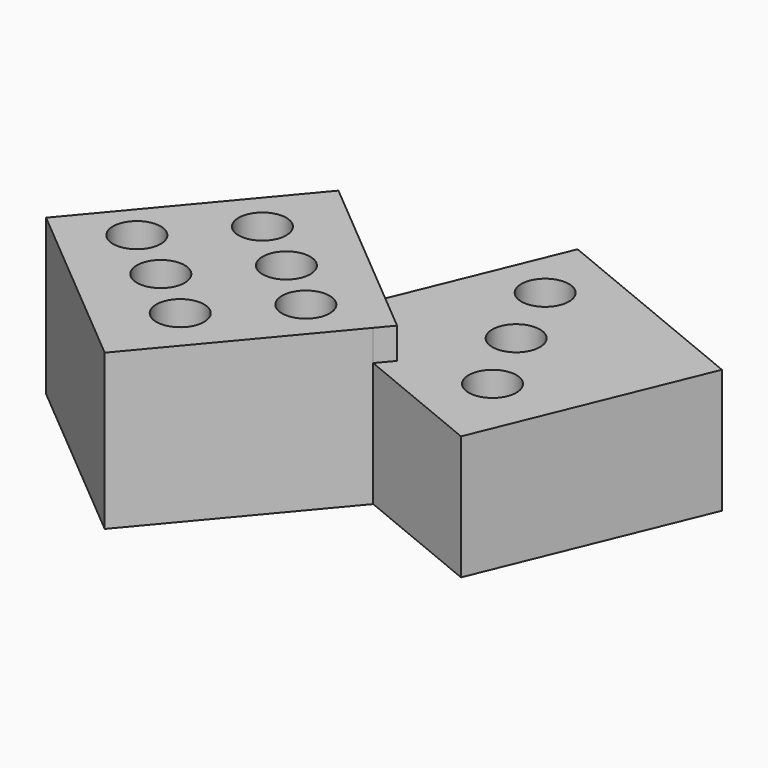
from build123d import *

# Parameters (mm, degrees)
F1_DEPTH = 25
F2_DEPTH = 20
F3_R     = 3.843017
F4_DEPTH = 25
F5_R     = 6.951677
F5_R_2   = 4
F6_DEPTH = 10


with BuildPart() as f1:
    # F0 (on Top) → F1 (new body)
    with BuildSketch(Plane.XY):
        Polygon((14.980248, -13.11259), (2.429798, -2.581512), (-0.571601, -9.866924), (13.009035, -15.46179), align=None)
        Polygon((2.429798, -2.581512), (-13.757027, 11.000847), (-37.870464, -17.736428), (-9.133189, -41.849865), (13.009035, -15.46179), (-0.571601, -9.866924), align=None)
    extrude(amount=F1_DEPTH)

    # F0 (on Top) → F2 (join)
    with BuildSketch(Plane.XY):
        Polygon((13.717991, 24.818756), (2.429798, -2.581512), (14.980248, -13.11259), (13.009035, -15.46179), (34.114079, -24.156516), (48.403671, 10.529164), align=None)
    extrude(amount=F2_DEPTH)

    # F3 (on Top) → F4 (cut)
    with BuildSketch(Plane.XY):
        with Locations((-15.104588, -2.620658)):
            Circle(F3_R)
        with Locations((-25.983153, -14.315117)):
            Circle(F3_R)
        with Locations((-6.129771, -9.011817)):
            Circle(F3_R)
        with Locations((-17.008336, -20.706276)):
            Circle(F3_R)
        with Locations((2.437101, -15.810922)):
            Circle(F3_R)
        with Locations((-8.441464, -27.50538)):
            Circle(F3_R)
        with Locations((17.939058, 13.017283)):
            Circle(F3_R)
        with Locations((22.834416, 1.050857)):
            Circle(F3_R)
        with Locations((28.273696, -10.507619)):
            Circle(F3_R)
    extrude(amount=F4_DEPTH, mode=Mode.SUBTRACT)

    # F5 (on Top) → F6 (join)
    with BuildSketch(Plane.XY):
        with Locations((1.257815, 1.869077)):
            Circle(F5_R)
        with Locations((1.257815, 1.869077)):
            Circle(F5_R_2, mode=Mode.SUBTRACT)
    extrude(amount=F6_DEPTH)


solid = f1.part
